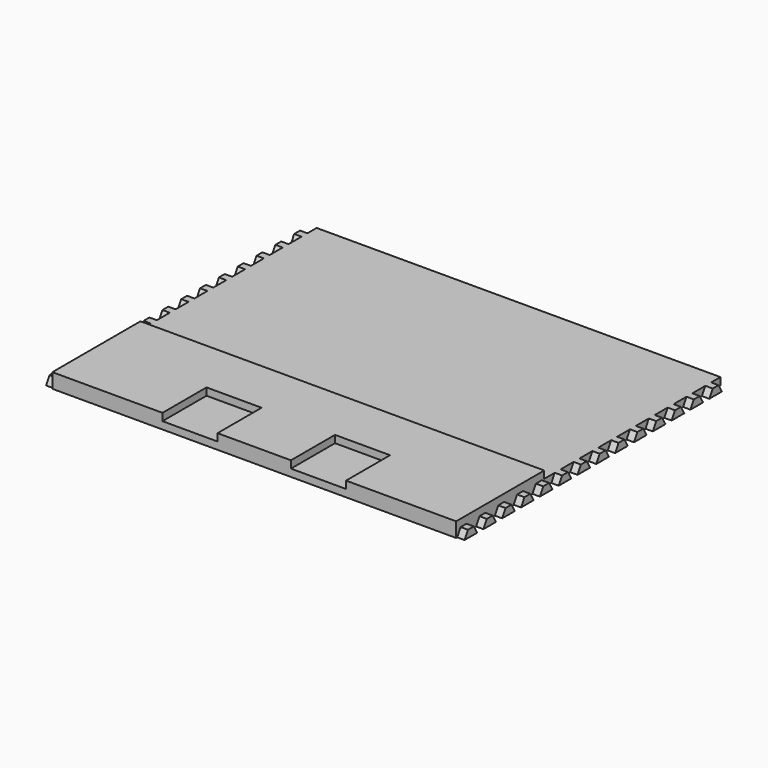
from build123d import *

# Parameters (mm, degrees)
SKETCH_W               = 110
SKETCH_H               = 90
PAD_DEPTH              = 2
PAD001_DEPTH           = 2
PAD002_DEPTH           = 2
LINEARPATTERN_COUNT    = 14
LINEARPATTERN_PITCH    = 6.409401
PAD003_DEPTH           = 2
LINEARPATTERN001_COUNT = 14
LINEARPATTERN001_PITCH = 6.409401


with BuildPart() as part:
    # Sketch → Pad (new body)
    with BuildSketch(Plane.XY):
        with Locations((55, -45)):
            Rectangle(SKETCH_W, SKETCH_H)
    extrude(amount=PAD_DEPTH)

    # Sketch001 (on Face6 of Pad) → Pad001 (join)
    with BuildSketch(Plane.XY.offset(2)):
        Polygon((110, -90), (110, -60), (0, -60), (0, -90), (30, -90), (30, -75), (45, -75), (45, -90), (65, -90), (65, -75), (80, -75), (80, -90), align=None)
    extrude(amount=PAD001_DEPTH)

    # Sketch002 (on Face2 of Pad001) → Pad002 (join)
    with BuildSketch(Plane(origin=(0, 0, 0), x_dir=(0, -1, 0), z_dir=(-1, 0, 0))):
        Polygon((2, 0), (3.154701, 2), (5.154701, 2), (6.309401, 0), align=None)
    pad002 = extrude(amount=PAD002_DEPTH)

    # LinearPattern: Pad002 ×14
    with Locations(*[(0, -i * LINEARPATTERN_PITCH, 0) for i in range(1, LINEARPATTERN_COUNT)]):
        add(pad002)

    # Sketch003 (on Face3 of LinearPattern) → Pad003 (join)
    with BuildSketch(Plane.YZ.offset(110)):
        Polygon((-2, 0), (-3.154701, 2), (-5.154701, 2), (-6.309401, 0), align=None)
    pad003 = extrude(amount=PAD003_DEPTH)

    # LinearPattern001: Pad003 ×14
    with Locations(*[(0, -i * LINEARPATTERN001_PITCH, 0) for i in range(1, LINEARPATTERN001_COUNT)]):
        add(pad003)


solid = part.part
